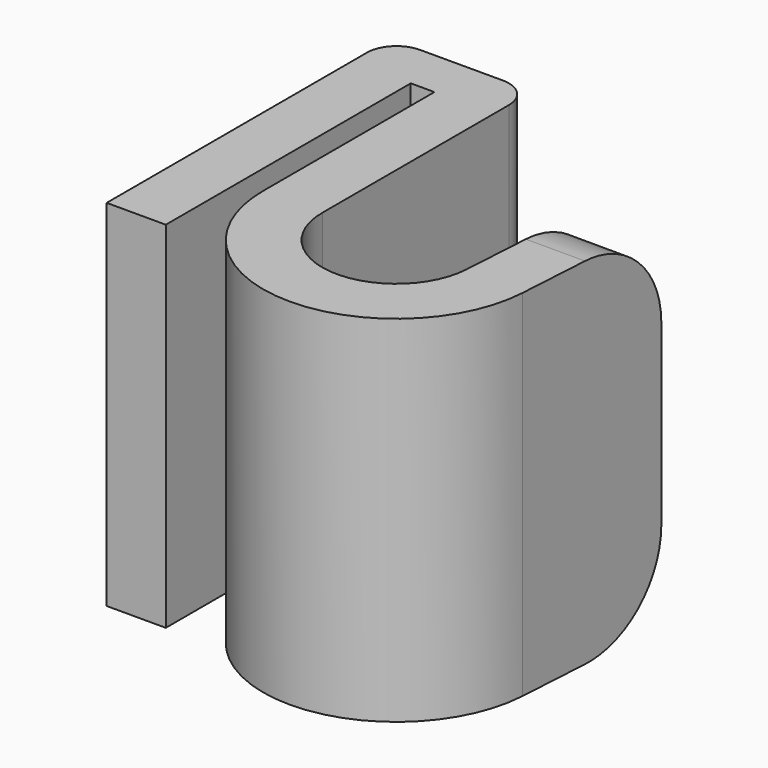
from build123d import *

# Parameters (mm, degrees)
F1_DEPTH = 12
F2_R     = 3
F3_R     = 1


with BuildPart() as f1:
    # F0 (on Top) → F1 (new body)
    with BuildSketch(Plane.XY):
        with BuildLine():
            Line((0, 12), (0, 0))
            Line((0, 0), (2, 0))
            Line((2, 0), (2, 10.3529319381))
            Line((2, 10.3529319381), (2.8, 10.3529319381))
            Line((2.8, 10.3529319381), (2.8, 3.1129138079))
            ThreePointArc((2.8, 3.1129138079), (3.3313730334, 5.2342341514), (4.8, 6.8545711946))
            Line((4.8, 6.8545711946), (4.8, 12))
            Line((4.8, 12), (0, 12))
        make_face()
        with BuildLine():
            Line((4.8, 3.1129138079), (4.8, 6.8545711946))
            ThreePointArc((4.8, 6.8545711946), (3.3313730334, 5.2342341514), (2.8, 3.1129138079))
            ThreePointArc((2.8, 3.1129138079), (3.1242899865, 1.4355808405), (4.0504203926, 0))
            Line((4.0504203926, 0), (4.8, 0))
            Line((4.8, 0), (4.8, 3.1129138079))
        make_face()
        with BuildLine():
            ThreePointArc((9.7952816589, 2.9593903809), (7.2232020421, 0.6140936715), (4.8, 3.1129138079))
            Line((4.8, 3.1129138079), (4.8, 0))
            Line((4.8, 0), (4.0504203926, 0))
            ThreePointArc((4.0504203926, 0), (8.8497267048, -1.1118166144), (11.7916968676, 2.83967536))
            ThreePointArc((11.7916968676, 2.83967536), (11.7979237379, 2.9762315199), (11.8, 3.1129138079))
            ThreePointArc((11.8, 3.1129138079), (11.3319192193, 5.1113200252), (10.0250544847, 6.6939860014))
            Line((10.0250544847, 6.6939860014), (9.7952816589, 2.9593903809))
        make_face()
        with BuildLine():
            Line((10.1232885867, 8.290626709), (10.0250544847, 6.6939860014))
            ThreePointArc((10.0250544847, 6.6939860014), (11.3319192193, 5.1113200252), (11.8, 3.1129138079))
            ThreePointArc((11.8, 3.1129138079), (11.7979237379, 2.9762315199), (11.7916968676, 2.83967536))
            Line((11.7916968676, 2.83967536), (12.1232885867, 8.290626709))
            Line((12.1232885867, 8.290626709), (10.1232885867, 8.290626709))
        make_face()
    extrude(amount=F1_DEPTH)

    # F2
    f2_edges = [f1.edges().sort_by_distance(p)[0] for p in [
        (11.123289, 8.290627, 12),
        (11.123289, 8.290627, 0),
    ]]
    fillet(f2_edges, radius=F2_R)

    # F3
    f3_edges = [f1.edges().sort_by_distance(p)[0] for p in [
        (0, 12, 6),
        (4.8, 12, 6),
    ]]
    fillet(f3_edges, radius=F3_R)


solid = f1.part
